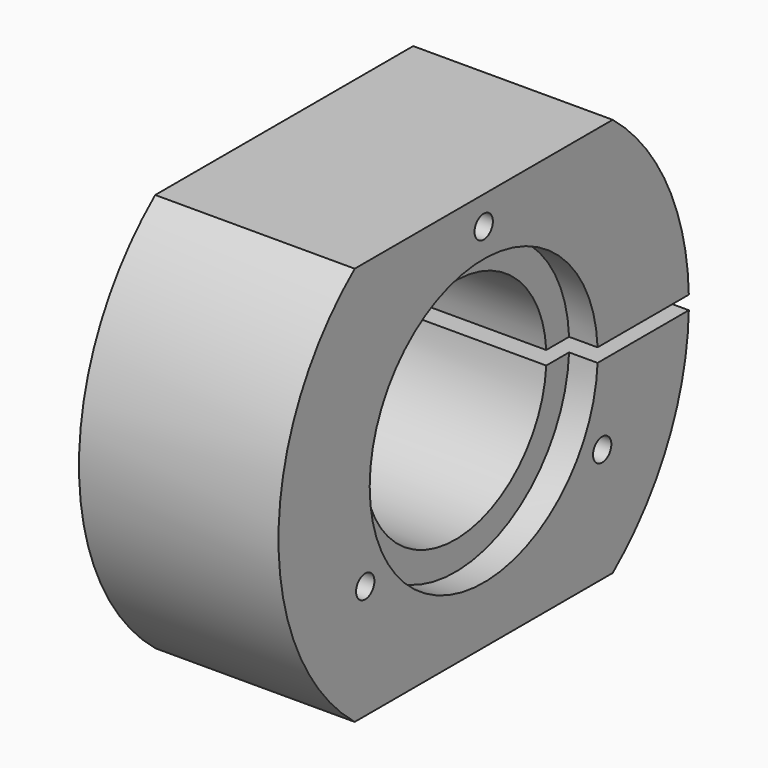
from build123d import *

# Parameters (mm, degrees)
F0_R      = 25.4
F1_DEPTH  = 22.225
F2_R      = 31.75
F3_DEPTH  = 6.35
F4_W      = 68.9518330619
F4_H      = 1.524
F5_DEPTH  = 44.451
F7_R      = 5.55625
F8_DEPTH  = 50.8
F10_D     = 7.14375
F12_D     = 5.1054
F12_DEPTH = 19.05
F12_TIP   = 1.5338169022


with BuildPart() as f1:
    # F0 (on Right) → F1 (new body, symmetric)
    with BuildSketch(Plane.YZ):
        with BuildLine():
            Line((35.9210244843, 44.45), (-35.9210244843, 44.45))
            ThreePointArc((-35.9210244843, 44.45), (-57.15, 0), (-35.9210244843, -44.45))
            Line((-35.9210244843, -44.45), (35.9210244843, -44.45))
            ThreePointArc((35.9210244843, -44.45), (57.15, 0), (35.9210244843, 44.45))
        make_face()
        Circle(F0_R, mode=Mode.SUBTRACT)
    extrude(amount=F1_DEPTH, both=True)

    # F2 (on face) → F3 (cut)
    with BuildSketch(Plane.YZ.offset(22.225)):
        Circle(F2_R)
    extrude(amount=-F3_DEPTH, mode=Mode.SUBTRACT)

    # F4 (on face) → F5 (cut, through all)
    with BuildSketch(Plane.YZ.offset(22.225)):
        with Locations((39.5418689586, 0.762)):
            Rectangle(F4_W, F4_H)
        with Locations((39.5418689586, -0.762)):
            Rectangle(F4_W, F4_H)
    extrude(amount=-F5_DEPTH, mode=Mode.SUBTRACT)

    # F7 (on offset) → F8 (cut)
    with BuildSketch(Plane.XY.offset(9.652)):
        with Locations((12.7, 44.4296763863)):
            Circle(F7_R)
        with Locations((-12.7, 44.4296763863)):
            Circle(F7_R)
    extrude(amount=F8_DEPTH, mode=Mode.SUBTRACT)

    # F10 (through all)
    with Locations(Plane.XY.offset(9.652)):
        with Locations((-12.7, 44.4296763863), (12.7, 44.4296763863)):
            Hole(F10_D / 2)

    # F12
    with Locations(Plane.YZ.offset(22.225)):
        with Locations((0, 38.1), (32.9955678842, -19.05), (-32.9955678842, -19.05)):
            Hole(F12_D / 2, depth=F12_DEPTH)
            with Locations((0, 0, -(F12_DEPTH + F12_TIP / 2))):  # 118° drill point
                Cone(0, F12_D / 2, F12_TIP, mode=Mode.SUBTRACT)


solid = f1.part
